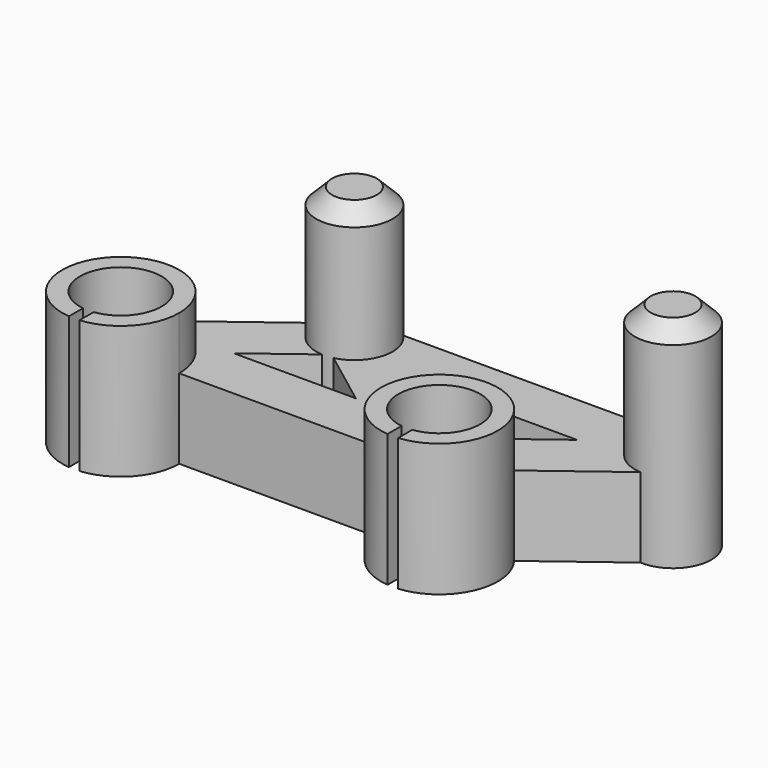
from build123d import *

# Parameters (mm, degrees)
BOX006_W               = 2
BOX006_H               = 10
BOX006_DEPTH           = 30
BOX005_W               = 2
BOX005_H               = 10
BOX005_DEPTH           = 30
CYLINDER001_R          = 7.7
CYLINDER001_DEPTH      = 25
CYLINDER_R             = 7.7
CYLINDER_DEPTH         = 25
BOX004_W               = 32
BOX004_H               = 10
BOX004_DEPTH           = 15
BOX004_PLACEMENT_ANGLE = -37
BOX_W                  = 60
BOX_H                  = 10
BOX_DEPTH              = 15
CYLINDER002_R          = 11
CYLINDER002_DEPTH      = 25
CYLINDER003_R          = 11
CYLINDER003_DEPTH      = 25
BOX003_W               = 34
BOX003_H               = 10
BOX003_DEPTH           = 15
BOX003_PLACEMENT_ANGLE = 37
BOX002_W               = 34
BOX002_H               = 10
BOX002_DEPTH           = 15
BOX002_PLACEMENT_ANGLE = 37
CYLINDER005_R          = 7.2
CYLINDER005_DEPTH      = 40
CYLINDER004_R          = 7.2
CYLINDER004_DEPTH      = 40
BOX001_W               = 60
BOX001_H               = 10
BOX001_DEPTH           = 15
CHAMFER_SIZE           = 3


with BuildPart() as cube006:
    # Box006 → Box006 (new body)
    with BuildSketch(Plane(origin=(59, -15, 0), x_dir=(1, 0, 0), z_dir=(0, 0, 1))):
        with Locations((1, 5)):
            Rectangle(BOX006_W, BOX006_H)
    extrude(amount=BOX006_DEPTH)


with BuildPart() as cube005:
    # Box005 → Box005 (new body)
    with BuildSketch(Plane(origin=(-1, -15, 0), x_dir=(1, 0, 0), z_dir=(0, 0, 1))):
        with Locations((1, 5)):
            Rectangle(BOX005_W, BOX005_H)
    extrude(amount=BOX005_DEPTH)


with BuildPart() as cylinder001:
    # Cylinder001 → Cylinder001 (new body)
    with BuildSketch(Plane(origin=(60, 0, 0), x_dir=(1, 0, 0), z_dir=(0, 0, 1))):
        Circle(CYLINDER001_R)
    extrude(amount=CYLINDER001_DEPTH)


with BuildPart() as cylinder:
    # Cylinder → Cylinder (new body)
    with BuildSketch(Plane.XY):
        Circle(CYLINDER_R)
    extrude(amount=CYLINDER_DEPTH)


with BuildPart() as cube004:
    # Box004 → Box004 (new body)
    with BuildSketch(Plane.XY):
        with Locations((16, 5)):
            Rectangle(BOX004_W, BOX004_H)
    extrude(amount=BOX004_DEPTH)


with BuildPart() as cube004_1:
    # Box004 placement: moved
    add(cube004.part.moved(Location((23, 20, 0))).rotate(Axis((23, 20, 0), (0, 0, 1)), BOX004_PLACEMENT_ANGLE))


with BuildPart() as cube:
    # Box → Box (new body)
    with BuildSketch(Plane.XY):
        with Locations((30, 5)):
            Rectangle(BOX_W, BOX_H)
    extrude(amount=BOX_DEPTH)


with BuildPart() as cylinder002:
    # Cylinder002 → Cylinder002 (new body)
    with BuildSketch(Plane.XY):
        Circle(CYLINDER002_R)
    extrude(amount=CYLINDER002_DEPTH)


with BuildPart() as fusion003:
    # Cylinder003 → Cylinder003 (new body)
    with BuildSketch(Plane(origin=(60, 0, 0), x_dir=(1, 0, 0), z_dir=(0, 0, 1))):
        Circle(CYLINDER003_R)
    extrude(amount=CYLINDER003_DEPTH)

    # Fusion: union Cube, Cylinder002
    add(cube.part)
    add(cylinder002.part)

    # Fusion003: union Cube004
    add(cube004_1.part)


with BuildPart() as fusion004:
    # Box003 → Box003 (new body)
    with BuildSketch(Plane.XY):
        with Locations((17, 5)):
            Rectangle(BOX003_W, BOX003_H)
    extrude(amount=BOX003_DEPTH)


with BuildPart() as fusion004_1:
    # Box003 placement: moved
    add(fusion004.part.moved(Location((60, 0, 0))).rotate(Axis((60, 0, 0), (0, 0, 1)), BOX003_PLACEMENT_ANGLE))

    # Fusion004: union Fusion003
    add(fusion003.part)


with BuildPart() as cut003:
    # Box002 → Box002 (new body)
    with BuildSketch(Plane.XY):
        with Locations((17, 5)):
            Rectangle(BOX002_W, BOX002_H)
    extrude(amount=BOX002_DEPTH)


with BuildPart() as cut003_1:
    # Box002 placement: moved
    add(cut003.part.rotate(Axis((0, 0, 0), (0, 0, 1)), BOX002_PLACEMENT_ANGLE))

    # Fusion005: union Fusion004
    add(fusion004_1.part)

    # Cut: cut Cylinder
    add(cylinder.part, mode=Mode.SUBTRACT)

    # Cut001: cut Cylinder001
    add(cylinder001.part, mode=Mode.SUBTRACT)

    # Cut002: cut Cube005
    add(cube005.part, mode=Mode.SUBTRACT)

    # Cut003: cut Cube006
    add(cube006.part, mode=Mode.SUBTRACT)


with BuildPart() as cylinder005:
    # Cylinder005 → Cylinder005 (new body)
    with BuildSketch(Plane(origin=(60, 0, 0), x_dir=(1, 0, 0), z_dir=(0, 0, 1))):
        Circle(CYLINDER005_R)
    extrude(amount=CYLINDER005_DEPTH)


with BuildPart() as fusion001:
    # Cylinder004 → Cylinder004 (new body)
    with BuildSketch(Plane.XY):
        Circle(CYLINDER004_R)
    extrude(amount=CYLINDER004_DEPTH)

    # Fusion001: union Cylinder005
    add(cylinder005.part)


with BuildPart() as fusion006:
    # Box001 → Box001 (new body)
    with BuildSketch(Plane(origin=(0, -5, 0), x_dir=(1, 0, 0), z_dir=(0, 0, 1))):
        with Locations((30, 5)):
            Rectangle(BOX001_W, BOX001_H)
    extrude(amount=BOX001_DEPTH)

    # Fusion002: union Fusion001
    add(fusion001.part)

    # Chamfer
    chamfer_edges = [fusion006.edges().sort_by_distance(p)[0] for p in [
        (-7.2, 0, 40),
        (52.8, 0, 40),
    ]]
    chamfer(chamfer_edges, length=CHAMFER_SIZE)


with BuildPart() as fusion006_1:
    # Chamfer placement: moved
    add(fusion006.part.moved(Location((24, 25, 0))))

    # Fusion006: union Cut003
    add(cut003_1.part)


solid = fusion006_1.part
